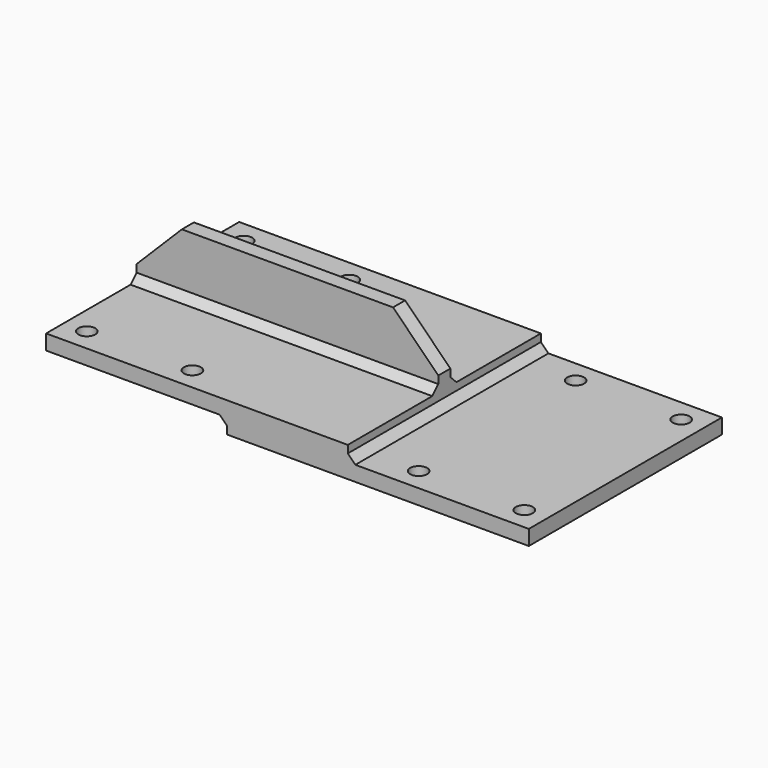
from build123d import *

# Parameters (mm, degrees)
F0_W      = 254
F0_H      = 203.2
F0_R      = 7.14375
F1_DEPTH  = 12.7
F2_W      = 254
F2_H      = 203.2
F2_R      = 7.14375
F3_DEPTH  = 12.7
F4_W      = 254
F4_H      = 12.7
F5_DEPTH  = 50.8
F6_SIZE   = 38.1
F7_W      = 254
F7_H      = 12.7
F8_DEPTH  = 50.8
F9_SIZE   = 38.1
F11_SIZE  = 6.35
F12_W     = 290.5442907095
F12_H     = 101.1743683696
F13_DEPTH = 203.201


with BuildPart() as f1:
    # F0 (on Top) → F1 (new body)
    with BuildSketch(Plane.XY):
        with Locations((-76.2, 0)):
            Rectangle(F0_W, F0_H)
        with Locations((-184.15, -82.55)):
            Circle(F0_R, mode=Mode.SUBTRACT)
        with Locations((-95.25, -82.55)):
            Circle(F0_R, mode=Mode.SUBTRACT)
        with Locations((-184.15, 82.55)):
            Circle(F0_R, mode=Mode.SUBTRACT)
        with Locations((-95.25, 82.55)):
            Circle(F0_R, mode=Mode.SUBTRACT)
    extrude(amount=F1_DEPTH)


with BuildPart() as f3:
    # F2 (on face) → F3 (new body)
    with BuildSketch(Plane(origin=(0, 0, 0), x_dir=(1, 0, 0), z_dir=(0, 0, -1))):
        with Locations((76.2, 0)):
            Rectangle(F2_W, F2_H)
        with Locations((95.25, -82.55)):
            Circle(F2_R, mode=Mode.SUBTRACT)
        with Locations((184.15, -82.55)):
            Circle(F2_R, mode=Mode.SUBTRACT)
        with Locations((95.25, 82.55)):
            Circle(F2_R, mode=Mode.SUBTRACT)
        with Locations((184.15, 82.55)):
            Circle(F2_R, mode=Mode.SUBTRACT)
    extrude(amount=F3_DEPTH)


with BuildPart() as f5:
    # F4 (on face) → F5 (new body)
    with BuildSketch(Plane.XY.offset(12.7)):
        with Locations((-76.2, 0)):
            Rectangle(F4_W, F4_H)
    extrude(amount=F5_DEPTH)

    # F6
    f6_edges = [f5.edges().sort_by_distance(p)[0] for p in [
        (-203.2, 0, 63.5),
        (50.8, 0, 63.5),
    ]]
    chamfer(f6_edges, length=F6_SIZE)


with BuildPart() as f8:
    # F7 (on face) → F8 (new body)
    with BuildSketch(Plane(origin=(0, 0, -12.7), x_dir=(1, 0, 0), z_dir=(0, 0, -1))):
        with Locations((76.2, 0)):
            Rectangle(F7_W, F7_H)
    extrude(amount=F8_DEPTH)

    # F9
    f9_edges = [f8.edges().sort_by_distance(p)[0] for p in [
        (203.2, 0, -63.5),
        (-50.8, 0, -63.5),
    ]]
    chamfer(f9_edges, length=F9_SIZE)


with BuildPart() as f1_1:
    add(f1.part)

    # F10: union F5, F3, F8
    add(f5.part)
    add(f3.part)
    add(f8.part)

    # F11
    f11_edges = [f1_1.edges().sort_by_distance(p)[0] for p in [
        (50.8, 0, 0),
        (-76.2, -6.35, 12.7),
        (-76.2, 6.35, 12.7),
        (-50.8, 0, 0),
        (76.2, 6.35, -12.7),
        (76.2, -6.35, -12.7),
    ]]
    chamfer(f11_edges, length=F11_SIZE)

    # F12 (on face) → F13 (cut, through all)
    with BuildSketch(Plane.XZ.offset(101.6)):
        with Locations((94.4721453547, -63.2871841848)):
            Rectangle(F12_W, F12_H)
    extrude(amount=-F13_DEPTH, mode=Mode.SUBTRACT)


solid = f1_1.part
